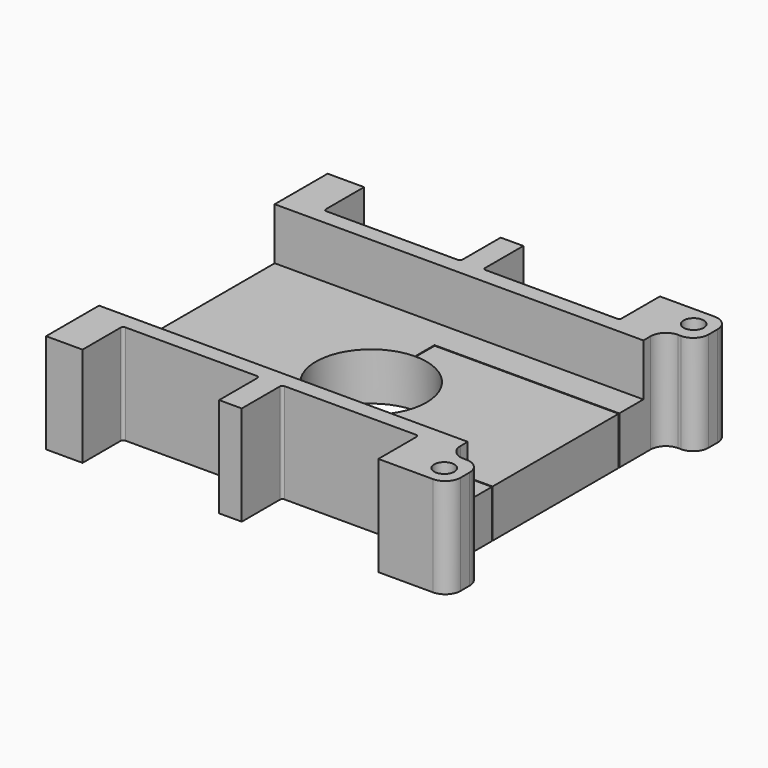
from build123d import *

# Parameters (mm, degrees)
SKETCH021_R          = 33
PAD017_DEPTH         = 37
PAD017_DEPTH_BACK    = 22.5
POCKET017_DEPTH      = 8.5
POCKET017_DEPTH_BACK = 13
SKETCH_2_R           = 6
POCKET018_DEPTH      = 50
POCKET018_DEPTH_BACK = 50
SKETCH028_R          = 6
POCKET019_DEPTH      = 180.001
POCKET020_START      = 10.5
SKETCH034_W          = 315.852005
SKETCH034_H          = 131
POCKET020_DEPTH      = 14.5


with BuildPart() as part:
    # Sketch021 → Pad017 (new body, two sides)
    with BuildSketch(Plane.XY) as pad017_sk:
        with BuildLine():
            Line((-110, -105), (110, -105))
            Line((110, -105), (120.90162, -105))
            ThreePointArc((120.90162, -105), (127.335146, -102.335146), (130, -95.90162))
            Line((130, -95.90162), (130, -89.09838))
            ThreePointArc((130, -89.09838), (127.335146, -82.664854), (120.90162, -80))
            Line((120.90162, -80), (119.09838, -80))
            ThreePointArc((110, -70.90162), (112.664854, -77.335146), (119.09838, -80))
            Line((110, -70.90162), (110, 0))
            Line((110, 70.90162), (110, 0))
            ThreePointArc((119.09838, 80), (112.664854, 77.335146), (110, 70.90162))
            Line((120.90162, 80), (119.09838, 80))
            ThreePointArc((120.90162, 80), (127.335146, 82.664854), (130, 89.09838))
            Line((130, 95.90162), (130, 89.09838))
            ThreePointArc((130, 95.90162), (127.335146, 102.335146), (120.90162, 105))
            Line((110, 105), (120.90162, 105))
            Line((110, 105), (-110, 105))
            Line((-110, 105), (-110, 0))
            Line((-110, -105), (-110, 0))
        make_face()
        Circle(SKETCH021_R, mode=Mode.SUBTRACT)
    extrude(amount=-PAD017_DEPTH)
    extrude(pad017_sk.sketch, amount=PAD017_DEPTH_BACK)

    # Sketch_1 → Pocket017 (cut, two sides)
    with BuildSketch(Plane.XY) as pocket017_sk:
        Polygon((145.597992, 65.5), (0, 65.5), (-153.015656, 65.5), (-153.015656, -65.5), (0, -65.5), (145.597992, -65.5), align=None)
    extrude(amount=-POCKET017_DEPTH, mode=Mode.SUBTRACT)
    extrude(pocket017_sk.sketch, amount=POCKET017_DEPTH_BACK, mode=Mode.SUBTRACT)

    # Sketch_2 → Pocket018 (cut, two sides)
    with BuildSketch(Plane.XY) as pocket018_sk:
        with Locations((-118, 93)):
            Circle(SKETCH_2_R)
        with Locations((118, 93)):
            Circle(SKETCH_2_R)
        with Locations((-118, -93)):
            Circle(SKETCH_2_R)
        with Locations((118, -93)):
            Circle(SKETCH_2_R)
        Polygon((-0.25, 33.607407), (-0.25, 47.5), (126.736248, 47.5), (126.736248, 47), (0.25, 47), (0.25, 33.607407), align=None)
        with BuildLine():
            ThreePointArc((86.75, 75), (87.81066, 75.43934), (88.25, 76.5))
            Line((88.25, 105), (88.25, 76.5))
            Line((88.25, 105), (6.75, 105))
            Line((6.75, 105), (6.75, 76.5))
            ThreePointArc((6.75, 76.5), (7.18934, 75.43934), (8.25, 75))
            Line((86.75, 75), (8.25, 75))
        make_face()
        Polygon((-0.067348, -33.607407), (-0.067348, -47.5), (126.736248, -47.5), (126.736248, -47), (0.25, -47), (0.25, -33.607407), align=None)
        with BuildLine():
            ThreePointArc((-88.25, 76.5), (-87.81066, 75.43934), (-86.75, 75))
            Line((-86.75, 75), (-8.25, 75))
            ThreePointArc((-8.25, 75), (-7.18934, 75.43934), (-6.75, 76.5))
            Line((-6.75, 105), (-6.75, 76.5))
            Line((-88.25, 105), (-6.75, 105))
            Line((-88.25, 105), (-88.25, 76.5))
        make_face()
        with BuildLine():
            ThreePointArc((88.25, -76.5), (87.81066, -75.43934), (86.75, -75))
            Line((86.75, -75), (8.25, -75))
            ThreePointArc((8.25, -75), (7.18934, -75.43934), (6.75, -76.5))
            Line((6.75, -105), (6.75, -76.5))
            Line((88.25, -105), (6.75, -105))
            Line((88.25, -105), (88.25, -76.5))
        make_face()
        with BuildLine():
            ThreePointArc((-86.75, -75), (-87.81066, -75.43934), (-88.25, -76.5))
            Line((-88.25, -105), (-88.25, -76.5))
            Line((-88.25, -105), (-6.75, -105))
            Line((-6.75, -105), (-6.75, -76.5))
            ThreePointArc((-6.75, -76.5), (-7.18934, -75.43934), (-8.25, -75))
            Line((-86.75, -75), (-8.25, -75))
        make_face()
    extrude(amount=-POCKET018_DEPTH, mode=Mode.SUBTRACT)
    extrude(pocket018_sk.sketch, amount=POCKET018_DEPTH_BACK, mode=Mode.SUBTRACT)

    # Sketch028 → Pocket019 (cut, through all)
    with BuildSketch(Plane.XZ.offset(75)):
        with Locations((74, -21.75)):
            Circle(SKETCH028_R)
    extrude(amount=-POCKET019_DEPTH, mode=Mode.SUBTRACT)

    # Sketch034 → Pocket020 (cut)
    with BuildSketch(Plane.XY.offset(POCKET020_START)):
        with Locations((3.702202, 0)):
            Rectangle(SKETCH034_W, SKETCH034_H)
    extrude(amount=POCKET020_DEPTH, mode=Mode.SUBTRACT)


solid = part.part
